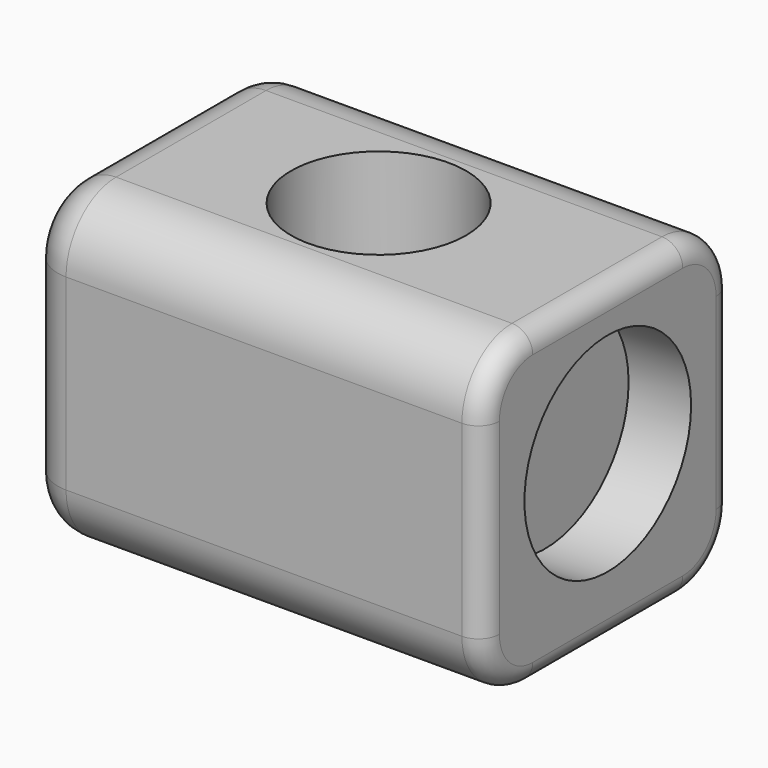
from build123d import *

# Parameters (mm, degrees)
SKETCH_W        = 22
SKETCH_H        = 15
PAD_DEPTH       = 15
SKETCH001_R     = 4.2
POCKET_DEPTH    = 15.001
SKETCH002_R     = 5
POCKET001_DEPTH = 3
SKETCH003_R     = 1.2
POCKET002_DEPTH = 10
FILLET_R        = 3
FILLET001_R     = 1
FILLET002_R     = 2


with BuildPart() as part:
    # Sketch → Pad (new body)
    with BuildSketch(Plane.XY):
        Rectangle(SKETCH_W, SKETCH_H)
    extrude(amount=PAD_DEPTH)

    # Sketch001 → Pocket (cut, through all)
    with BuildSketch(Plane.XY.offset(15)):
        Circle(SKETCH001_R)
    extrude(amount=-POCKET_DEPTH, mode=Mode.SUBTRACT)

    # Sketch002 → Pocket001 (cut)
    with BuildSketch(Plane.YZ.offset(11)):
        with Locations((0, 8)):
            Circle(SKETCH002_R)
    extrude(amount=-POCKET001_DEPTH, mode=Mode.SUBTRACT)

    # Sketch003 → Pocket002 (cut)
    with BuildSketch(Plane(origin=(-11, 0, 0), x_dir=(0, -1, 0), z_dir=(-1, 0, 0))):
        with Locations((0, 8)):
            Circle(SKETCH003_R)
    extrude(amount=-POCKET002_DEPTH, mode=Mode.SUBTRACT)

    # Fillet
    fillet_edges = [part.edges().sort_by_distance(p)[0] for p in [
        (0, -7.5, 15),
        (0, -7.5, 0),
        (0, 7.5, 15),
        (0, 7.5, 0),
    ]]
    fillet(fillet_edges, radius=FILLET_R)

    # Fillet001
    fillet001_edges = [part.edges().sort_by_distance(p)[0] for p in [
        (11, 0, 15),
    ]]
    fillet(fillet001_edges, radius=FILLET001_R)

    # Fillet002
    fillet002_edges = [part.edges().sort_by_distance(p)[0] for p in [
        (-11, 0, 0),
    ]]
    fillet(fillet002_edges, radius=FILLET002_R)


solid = part.part
